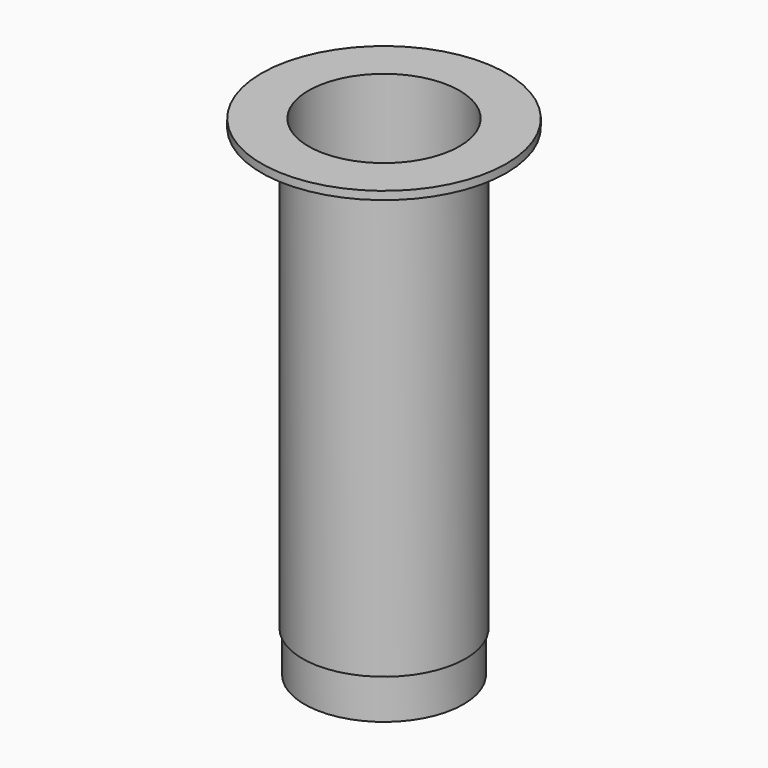
from build123d import *

# Parameters (mm, degrees)
SKETCH_R      = 19.5
PAD_DEPTH     = 10
PAD001_START  = 10
SKETCH002_R   = 20
PAD001_DEPTH  = 110
SKETCH003_R   = 18.5
POCKET_DEPTH  = 120.001
PAD003_START  = 118
SKETCH007_R   = 30
SKETCH007_R_2 = 20
PAD003_DEPTH  = 2


with BuildPart() as part:
    # Sketch → Pad (new body)
    with BuildSketch(Plane.XY):
        Circle(SKETCH_R)
    extrude(amount=PAD_DEPTH)

    # Sketch002 → Pad001 (join)
    with BuildSketch(Plane.XY.offset(PAD001_START)):
        Circle(SKETCH002_R)
    extrude(amount=PAD001_DEPTH)

    # Sketch003 → Pocket (cut, through all)
    with BuildSketch(Plane.XY):
        Circle(SKETCH003_R)
    extrude(amount=POCKET_DEPTH, mode=Mode.SUBTRACT)

    # Sketch007 → Pad003 (join)
    with BuildSketch(Plane.XY.offset(PAD003_START)):
        Circle(SKETCH007_R)
        Circle(SKETCH007_R_2, mode=Mode.SUBTRACT)
    extrude(amount=PAD003_DEPTH)


solid = part.part
